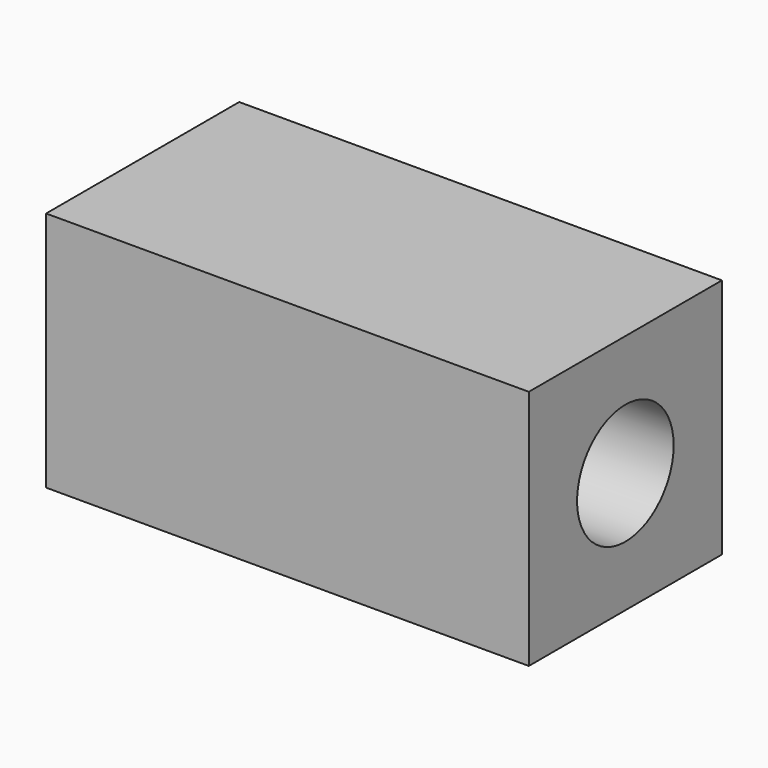
from build123d import *

# Parameters (mm, degrees)
F0_W     = 20
F0_H     = 10
F1_DEPTH = 10
F2_R     = 2.5
F3_DEPTH = 20.001


with BuildPart() as f1:
    # F0 (on Front) → F1 (new body)
    with BuildSketch(Plane.XZ):
        Rectangle(F0_W, F0_H)
    extrude(amount=F1_DEPTH)

    # F2 (on face) → F3 (cut, through all)
    with BuildSketch(Plane.YZ.offset(10)):
        with Locations((-5, 0)):
            Circle(F2_R)
    extrude(amount=-F3_DEPTH, mode=Mode.SUBTRACT)


solid = f1.part
